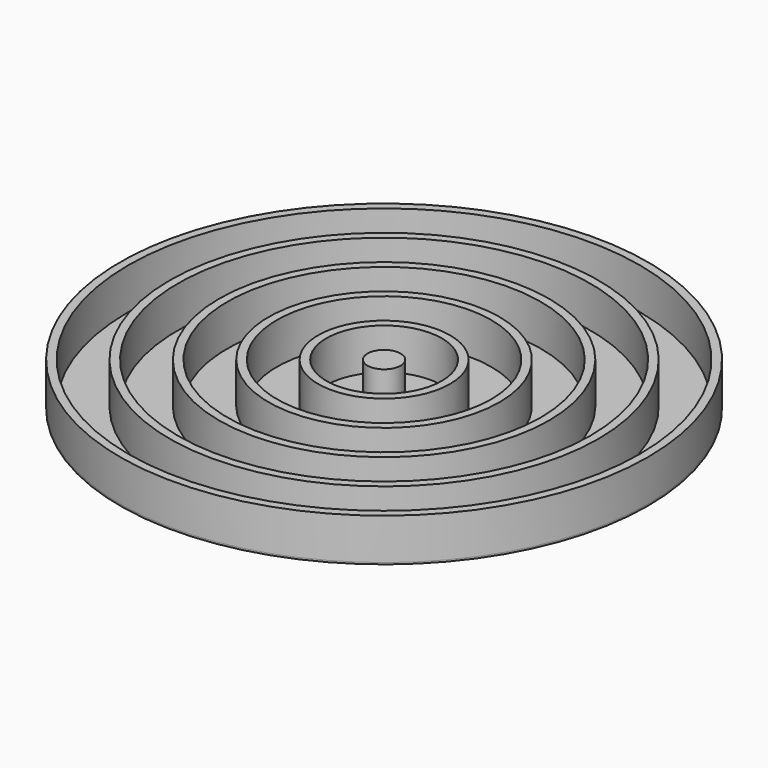
from build123d import *

# Parameters (mm, degrees)
F0_R     = 160
F1_DEPTH = 1
F2_R     = 160
F2_R_2   = 155
F2_R_3   = 130
F2_R_4   = 125
F2_R_5   = 100
F2_R_6   = 95
F2_R_7   = 70
F2_R_8   = 65
F2_R_9   = 40
F2_R_10  = 35
F2_R_11  = 10
F3_DEPTH = 25


with BuildPart() as f1:
    # F0 (on Top) → F1 (new body)
    with BuildSketch(Plane.XY):
        Circle(F0_R)
    extrude(amount=-F1_DEPTH)

    # F2 (on face) → F3 (join)
    with BuildSketch(Plane.XY):
        Circle(F2_R)
        Circle(F2_R_2, mode=Mode.SUBTRACT)
        Circle(F2_R_3)
        Circle(F2_R_4, mode=Mode.SUBTRACT)
        Circle(F2_R_5)
        Circle(F2_R_6, mode=Mode.SUBTRACT)
        Circle(F2_R_7)
        Circle(F2_R_8, mode=Mode.SUBTRACT)
        Circle(F2_R_9)
        Circle(F2_R_10, mode=Mode.SUBTRACT)
        Circle(F2_R_11)
    extrude(amount=F3_DEPTH)


solid = f1.part
